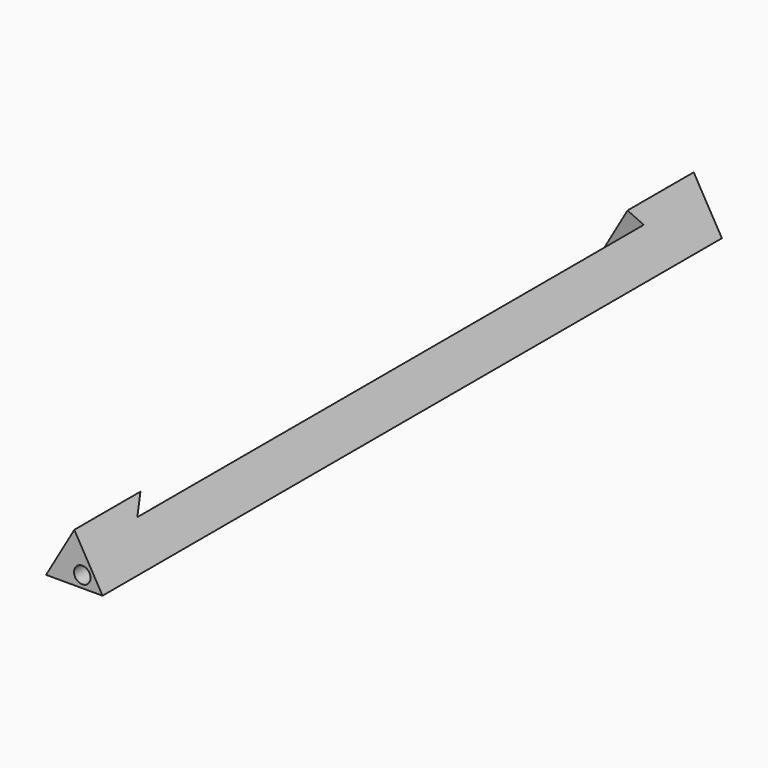
from build123d import *

# Parameters (mm, degrees)
F1_DEPTH = 192
F5_DEPTH = 12.5
F6_R     = 2.05
F7_DEPTH = 200


with BuildPart() as f1:
    # F0 (on Front) → F1 (new body)
    with BuildSketch(Plane.XZ):
        Polygon((0, 12.124355653), (-7, 0), (7, 0), align=None)
    extrude(amount=-F1_DEPTH)

    # F4 (on 3pt) → F5 (cut, symmetric)
    with BuildSketch(Plane(origin=(1.75, 0, 3.0310889132), x_dir=(0.8660254038, 0, -0.5), z_dir=(0.5, 0, 0.8660254038))):
        Polygon((-6.0621778265, 20.5), (-2.5621778265, 17), (-2.5621778265, 174), (-6.0621778265, 171.5), align=None)
    extrude(amount=F5_DEPTH, both=True, mode=Mode.SUBTRACT)

    # F6 (on Front) → F7 (cut)
    with BuildSketch(Plane.XZ):
        with Locations((1.9770526581, 2.9)):
            Circle(F6_R)
    extrude(amount=-F7_DEPTH, mode=Mode.SUBTRACT)


solid = f1.part
